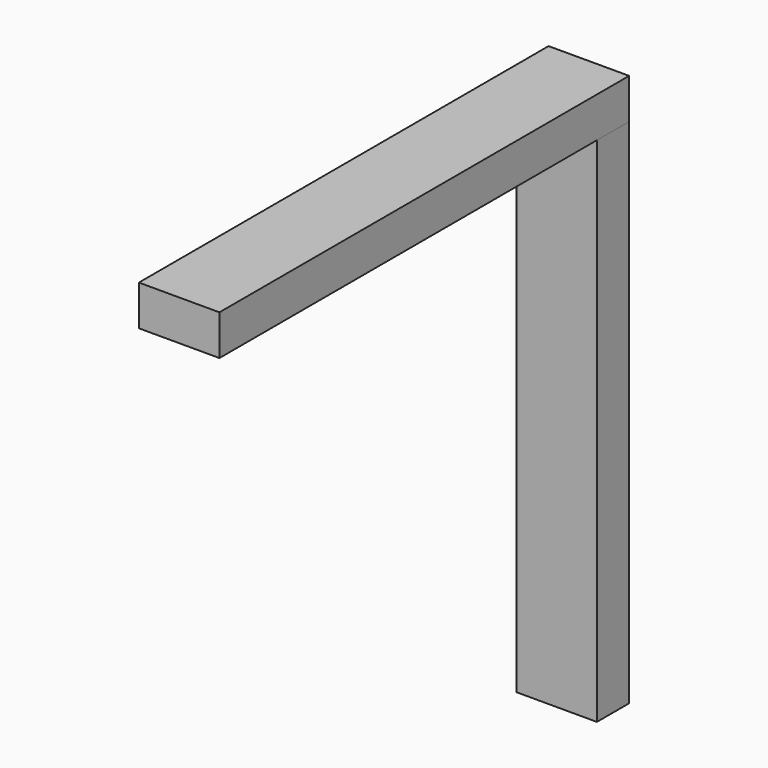
from build123d import *

# Parameters (mm, degrees)
F0_W     = 70
F0_H     = 35
F1_DEPTH = 445
F2_W     = 70
F2_H     = 35
F3_DEPTH = 445


with BuildPart() as f1:
    # F0 (on Front) → F1 (new body)
    with BuildSketch(Plane.XZ):
        Rectangle(F0_W, F0_H)
    extrude(amount=F1_DEPTH)


with BuildPart() as f3:
    # F2 (on face) → F3 (new body)
    with BuildSketch(Plane(origin=(0, 0, -17.5), x_dir=(1, 0, 0), z_dir=(0, 0, -1))):
        with Locations((0, 17.5)):
            Rectangle(F2_W, F2_H)
    extrude(amount=F3_DEPTH)


solid = Compound([f1.part, f3.part])
